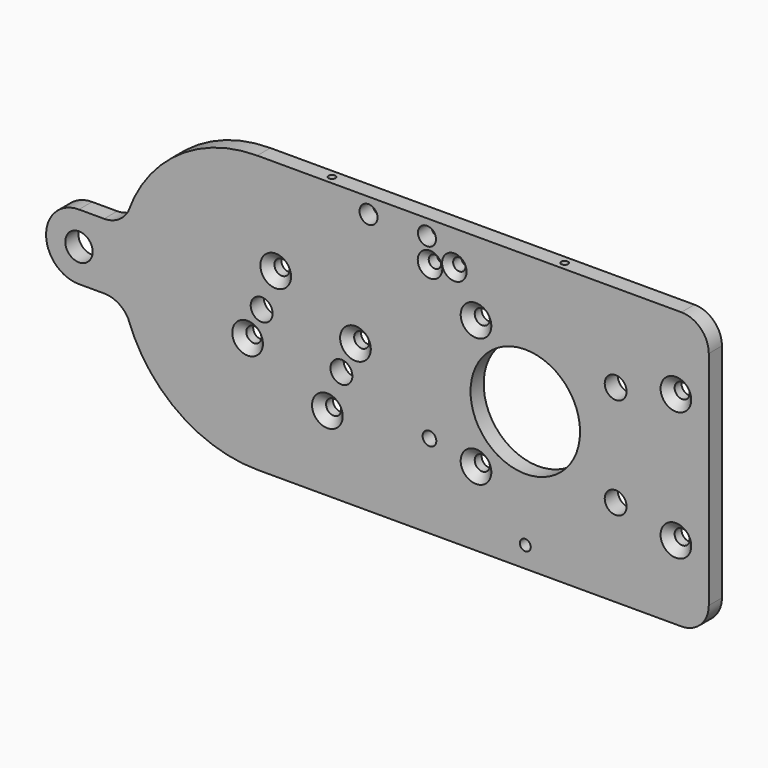
from build123d import *

# Parameters (mm, degrees)
F0_R           = 5
F0_R_2         = 20
F1_DEPTH       = 6
F3_D           = 6.6
F4_D           = 4.5
F4_CSINK_D     = 8.96
F4_CSINK_ANGLE = 90
F5_D           = 5.5
F5_CSINK_D     = 11.2
F5_CSINK_ANGLE = 90
F6_D           = 4
F7_D           = 8
F8_D           = 5
F10_D          = 2.5
F10_DEPTH      = 5
F10_TIP        = 0.7510757738


with BuildPart() as f1:
    # F0 (on Front) → F1 (new body)
    with BuildSketch(Plane.XZ):
        with BuildLine():
            Line((-116.6983369343, 12), (-125.8983369343, 12))
            ThreePointArc((-125.8983369343, 12), (-137.8983369343, 0), (-125.8983369343, -12))
            Line((-125.8983369343, -12), (-116.6983369343, -12))
            ThreePointArc((-116.6983369343, -12), (-111.5765110931, -13.4112340786), (-107.9003042862, -17.2466199896))
            ThreePointArc((-107.9003042862, -17.2466199896), (-89.6210681696, -41.3493023164), (-60.7881962998, -50.5))
            Line((-60.7881962998, -50.5), (-29.6183369343, -50.5))
            Line((-29.6183369343, -50.5), (94.1016630657, -50.5))
            ThreePointArc((94.1016630657, -50.5), (101.1727308776, -47.5710678119), (104.1016630657, -40.5))
            Line((104.1016630657, -40.5), (104.1016630657, 40.5))
            ThreePointArc((104.1016630657, 40.5), (101.1727308776, 47.5710678119), (94.1016630657, 50.5))
            Line((94.1016630657, 50.5), (-60.7881962998, 50.5))
            ThreePointArc((-60.7881962998, 50.5), (-89.6210681696, 41.3493023164), (-107.9003042862, 17.2466199896))
            ThreePointArc((-107.9003042862, 17.2466199896), (-111.5765110931, 13.4112340786), (-116.6983369343, 12))
        make_face()
        with Locations((-125.8983369343, 0)):
            Circle(F0_R, mode=Mode.SUBTRACT)
        with Locations((37.1016630657, 0)):
            Circle(F0_R_2, mode=Mode.SUBTRACT)
    extrude(amount=F1_DEPTH)

    # F3 (through all)
    with Locations(Plane.XZ.offset(6)):
        with Locations((1.2016630657, 44.8), (-20.1483369343, 44.8)):
            Hole(F3_D / 2)

    # F4 (through all)
    with Locations(Plane.XZ.offset(6)):
        with Locations((2.3016630657, 36), (11.2016630657, 38)):
            CounterSinkHole(F4_D / 2, F4_CSINK_D / 2, counter_sink_angle=F4_CSINK_ANGLE)

    # F5 (through all)
    with Locations(Plane.XZ.offset(6)):
        with Locations((19.1016630657, 23.5), (92.1016630657, 23.5), (92.1016630657, -23.5), (19.1016630657, -23.5), (-35.1783369343, -23.2), (-24.9183369343, 1.7480218202), (-54.0483369343, 15.6), (-64.3083369343, -9.3480218202)):
            CounterSinkHole(F5_D / 2, F5_CSINK_D / 2, counter_sink_angle=F5_CSINK_ANGLE)

    # F6 (through all)
    with Locations(Plane.XZ.offset(6)):
        with Locations((37.1016630657, -42.9)):
            Hole(F6_D / 2)

    # F7 (through all)
    with Locations(Plane.XZ.offset(6)):
        with Locations((70.1016630657, 18.5), (70.1016630657, -18.5), (-30.0483369343, -9.1), (-59.1783369343, 1.52)):
            Hole(F7_D / 2)

    # F8 (through all)
    with Locations(Plane.XZ.offset(6)):
        with Locations((2.1016630657, -20)):
            Hole(F8_D / 2)

    # F10
    with Locations(Plane.XY.offset(50.5)):
        with Locations((49.0775220096, -3), (-35.9050817788, -3)):
            Hole(F10_D / 2, depth=F10_DEPTH)
            with Locations((0, 0, -(F10_DEPTH + F10_TIP / 2))):  # 118° drill point
                Cone(0, F10_D / 2, F10_TIP, mode=Mode.SUBTRACT)


solid = f1.part
